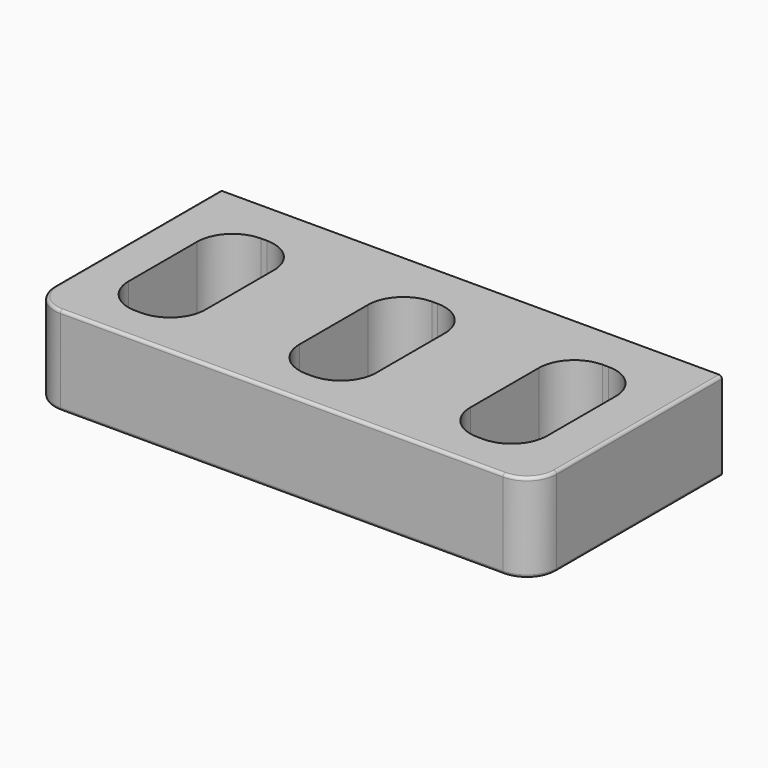
from build123d import *

# Parameters (mm, degrees)
F0_W     = 170
F0_H     = 80
F0_W_2   = 26
F0_H_2   = 53
F1_DEPTH = 30
F2_R     = 10.0472084404
F3_R     = 12
F4_R     = 1
F5_R     = 1.95
F6_DEPTH = 20


with BuildPart() as f1:
    # F0 (on Top) → F1 (new body)
    with BuildSketch(Plane.XY):
        with Locations((-5.2488362789, -6.2499986589)):
            Rectangle(F0_W, F0_H)
        with Locations((-63.4411496222, -7.5576923192)):
            Rectangle(F0_W_2, F0_H_2, mode=Mode.SUBTRACT)
        with Locations((-5.6146496222, -7.5576923192)):
            Rectangle(F0_W_2, F0_H_2, mode=Mode.SUBTRACT)
        with Locations((52.2118503778, -7.5576923192)):
            Rectangle(F0_W_2, F0_H_2, mode=Mode.SUBTRACT)
    extrude(amount=F1_DEPTH)

    # F2
    f2_edges = [f1.edges().sort_by_distance(p)[0] for p in [
        (-90.248836, -46.249999, 15),
        (79.751164, -46.249999, 15),
    ]]
    fillet(f2_edges, radius=F2_R)

    # F3
    f3_edges = [f1.edges().sort_by_distance(p)[0] for p in [
        (-50.44115, 18.942308, 15),
        (7.38535, 18.942308, 15),
        (65.21185, 18.942308, 15),
        (-76.44115, 18.942308, 15),
        (-18.61465, 18.942308, 15),
        (39.21185, 18.942308, 15),
        (39.21185, -34.057692, 15),
        (-18.61465, -34.057692, 15),
        (-76.44115, -34.057692, 15),
        (-50.44115, -34.057692, 15),
        (7.38535, -34.057692, 15),
        (65.21185, -34.057692, 15),
    ]]
    fillet(f3_edges, radius=F3_R)

    # F4
    f4_edges = [f1.edges().sort_by_distance(p)[0] for p in [
        (-90.248836, -1.226394, 30),
        (-87.306077, -43.307239, 30),
        (79.751164, -1.226394, 0),
    ]]
    fillet(f4_edges, radius=F4_R)

    # F5 (on face) → F6 (cut)
    with BuildSketch(Plane(origin=(0, 33.7500013411, 0), x_dir=(-1, 0, 0), z_dir=(0, 1, 0))):
        with Locations((-70.7511637211, 14.5192313939)):
            Circle(F5_R)
        with Locations((77.2488362789, 14.5192313939)):
            Circle(F5_R)
    extrude(amount=-F6_DEPTH, mode=Mode.SUBTRACT)


solid = f1.part
